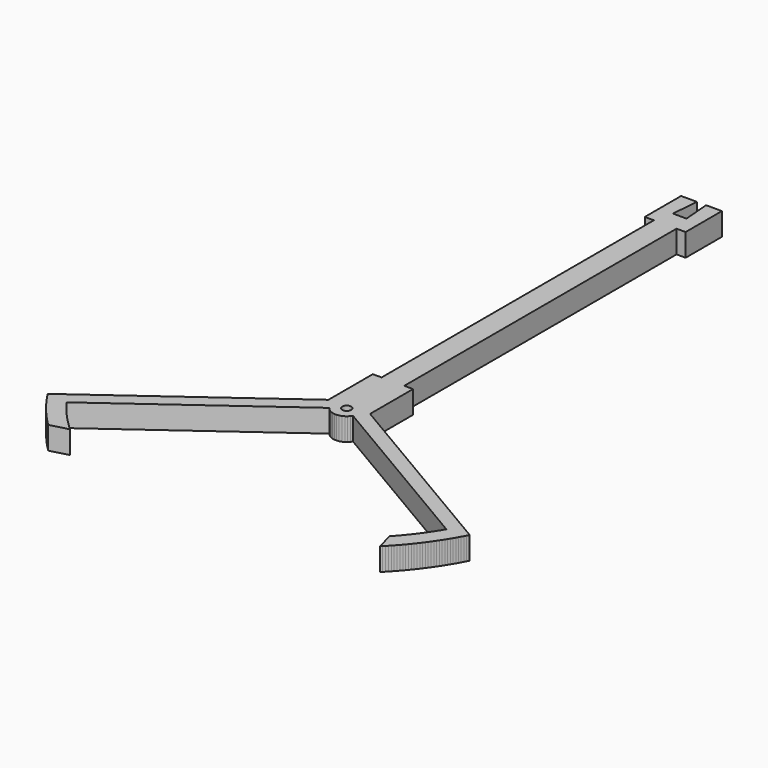
from build123d import *

# Parameters (mm, degrees)
F1_DEPTH = 5
F2_W     = 5
F2_H     = 5
F3_DEPTH = 85
F4_W     = 2
F4_H     = 10
F5_DEPTH = 5
F6_DEPTH = 5
F7_R     = 1
F8_DEPTH = 10


with BuildPart() as f1:
    # F0 (on Top) → F1 (new body)
    with BuildSketch(Plane.XY):
        Polygon((3.1958913997, 17.8316862418), (3.1958913997, 29.6752474937), (-5.6755073997, 29.6752474937), (-5.6755073997, 17.4481306137), (-3.004598, 19.391063), (-2.590673, 19.643703), (-2.127576, 19.830687), (-1.639877, 19.938255), (-1.14109, 19.963425), (-0.645039, 19.905499), (-0.165471, 19.766083), (0.284322, 19.549041), align=None)
        with BuildLine():
            Line((44.778874, -6.695544), (3.1958913997, 17.8316862418))
            Line((3.1958913997, 17.8316862418), (3.1958913997, 16.96755))
            Line((3.1958913997, 16.96755), (-0.239810875, 16.96755))
            ThreePointArc((-0.239810875, 16.96755), (-1.239808, 15.967552875), (-2.239805125, 16.96755))
            Line((-2.239805125, 16.96755), (-5.6755073997, 16.96755))
            Line((-5.6755073997, 16.96755), (-5.6755073997, 17.4481306137))
            Line((-5.6755073997, 17.4481306137), (-44.778874, -10.997311))
            Line((-44.778874, -10.997311), (-44.506651, -11.416707))
            Line((-44.506651, -11.416707), (-44.230389, -11.833453))
            Line((-44.230389, -11.833453), (-43.950113, -12.24751))
            Line((-43.950113, -12.24751), (-43.66585, -12.65884))
            Line((-43.66585, -12.65884), (-43.377624, -13.067404))
            Line((-43.377624, -13.067404), (-43.085465, -13.473164))
            Line((-43.085465, -13.473164), (-42.789399, -13.876081))
            Line((-42.789399, -13.876081), (-42.489453, -14.276119))
            Line((-42.489453, -14.276119), (-42.185655, -14.673241))
            Line((-42.185655, -14.673241), (-41.878035, -15.067408))
            Line((-41.878035, -15.067408), (-41.56662, -15.458584))
            Line((-41.56662, -15.458584), (-41.25144, -15.846733))
            Line((-41.25144, -15.846733), (-40.932525, -16.231819))
            Line((-40.932525, -16.231819), (-40.609903, -16.613804))
            Line((-40.609903, -16.613804), (-40.283605, -16.992655))
            Line((-40.283605, -16.992655), (-39.953662, -17.368335))
            Line((-39.953662, -17.368335), (-39.620104, -17.74081))
            Line((-39.620104, -17.74081), (-39.282963, -18.110044))
            Line((-39.282963, -18.110044), (-38.942269, -18.476003))
            Line((-38.942269, -18.476003), (-38.598056, -18.838653))
            Line((-38.598056, -18.838653), (-38.250354, -19.19796))
            Line((-38.250354, -19.19796), (-37.899197, -19.553891))
            Line((-37.899197, -19.553891), (-37.544616, -19.906411))
            Line((-37.544616, -19.906411), (-37.486622, -19.963425))
            Line((-37.486622, -19.963425), (-33.507621, -18.914429))
            Line((-33.507621, -18.914429), (-33.877651, -18.578163))
            Line((-33.877651, -18.578163), (-34.244177, -18.23808))
            Line((-34.244177, -18.23808), (-34.60716, -17.894218))
            Line((-34.60716, -17.894218), (-34.966561, -17.546614))
            Line((-34.966561, -17.546614), (-35.322341, -17.195304))
            Line((-35.322341, -17.195304), (-35.674461, -16.840326))
            Line((-35.674461, -16.840326), (-36.022885, -16.481719))
            Line((-36.022885, -16.481719), (-36.367574, -16.119522))
            Line((-36.367574, -16.119522), (-36.708491, -15.753772))
            Line((-36.708491, -15.753772), (-37.045601, -15.384509))
            Line((-37.045601, -15.384509), (-37.378867, -15.011774))
            Line((-37.378867, -15.011774), (-37.708252, -14.635605))
            Line((-37.708252, -14.635605), (-38.033722, -14.256044))
            Line((-38.033722, -14.256044), (-38.355242, -13.87313))
            Line((-38.355242, -13.87313), (-38.672778, -13.486906))
            Line((-38.672778, -13.486906), (-38.986294, -13.097412))
            Line((-38.986294, -13.097412), (-39.295758, -12.704691))
            Line((-39.295758, -12.704691), (-39.601136, -12.308785))
            Line((-39.601136, -12.308785), (-39.902395, -11.909735))
            Line((-39.902395, -11.909735), (-40.199504, -11.507586))
            Line((-40.199504, -11.507586), (-40.262255, -11.421522))
            Line((-40.262255, -11.421522), (-3.665827, 15.200266))
            Line((-3.665827, 15.200266), (-3.339439, 14.822254))
            Line((-3.339439, 14.822254), (-2.954863, 14.503627))
            Line((-2.954863, 14.503627), (-2.522758, 14.253214))
            Line((-2.522758, 14.253214), (-2.055097, 14.077956))
            Line((-2.055097, 14.077956), (-1.564842, 13.982709))
            Line((-1.564842, 13.982709), (-1.06558, 13.970114))
            Line((-1.06558, 13.970114), (-0.571146, 14.040519))
            Line((-0.571146, 14.040519), (-0.095243, 14.191973))
            Line((-0.095243, 14.191973), (0.34894, 14.420279))
            Line((0.34894, 14.420279), (0.749093, 14.719109))
            Line((0.749093, 14.719109), (1.094126, 15.080183))
            Line((1.094126, 15.080183), (1.344177, 15.440914))
            Line((1.344177, 15.440914), (40.323708, -7.550701))
            Line((40.323708, -7.550701), (40.067458, -7.980043))
            Line((40.067458, -7.980043), (39.806774, -8.406706))
            Line((39.806774, -8.406706), (39.541683, -8.830645))
            Line((39.541683, -8.830645), (39.272214, -9.251815))
            Line((39.272214, -9.251815), (38.998395, -9.67017))
            Line((38.998395, -9.67017), (38.720256, -10.085665))
            Line((38.720256, -10.085665), (38.437827, -10.498257))
            Line((38.437827, -10.498257), (38.151138, -10.907899))
            Line((38.151138, -10.907899), (37.86022, -11.31455))
            Line((37.86022, -11.31455), (37.565104, -11.718164))
            Line((37.565104, -11.718164), (37.265821, -12.118698))
            Line((37.265821, -12.118698), (36.962405, -12.51611))
            Line((36.962405, -12.51611), (36.654888, -12.910357))
            Line((36.654888, -12.910357), (36.343302, -13.301397))
            Line((36.343302, -13.301397), (36.02768, -13.689187))
            Line((36.02768, -13.689187), (35.708058, -14.073686))
            Line((35.708058, -14.073686), (35.384469, -14.454852))
            Line((35.384469, -14.454852), (35.056948, -14.832646))
            Line((35.056948, -14.832646), (34.72553, -15.207025))
            Line((34.72553, -15.207025), (34.390251, -15.57795))
            Line((34.390251, -15.57795), (34.318334, -15.656515))
            Line((34.318334, -15.656515), (35.327871, -19.64571))
            Line((35.327871, -19.64571), (35.67992, -19.290661))
            Line((35.67992, -19.290661), (36.028522, -18.932227))
            Line((36.028522, -18.932227), (36.373644, -18.570442))
            Line((36.373644, -18.570442), (36.715254, -18.205338))
            Line((36.715254, -18.205338), (37.05332, -17.836951))
            Line((37.05332, -17.836951), (37.387811, -17.465314))
            Line((37.387811, -17.465314), (37.718695, -17.090462))
            Line((37.718695, -17.090462), (38.045942, -16.712431))
            Line((38.045942, -16.712431), (38.369521, -16.331256))
            Line((38.369521, -16.331256), (38.689401, -15.946971))
            Line((38.689401, -15.946971), (39.005553, -15.559614))
            Line((39.005553, -15.559614), (39.317948, -15.16922))
            Line((39.317948, -15.16922), (39.626556, -14.775825))
            Line((39.626556, -14.775825), (39.931348, -14.379467))
            Line((39.931348, -14.379467), (40.232296, -13.980182))
            Line((40.232296, -13.980182), (40.529372, -13.578008))
            Line((40.529372, -13.578008), (40.822549, -13.172983))
            Line((40.822549, -13.172983), (41.111797, -12.765143))
            Line((41.111797, -12.765143), (41.397092, -12.354527))
            Line((41.397092, -12.354527), (41.678405, -11.941174))
            Line((41.678405, -11.941174), (41.955712, -11.525122))
            Line((41.955712, -11.525122), (42.228985, -11.10641))
            Line((42.228985, -11.10641), (42.498199, -10.685077))
            Line((42.498199, -10.685077), (42.76333, -10.261162))
            Line((42.76333, -10.261162), (43.024353, -9.834706))
            Line((43.024353, -9.834706), (43.281242, -9.405747))
            Line((43.281242, -9.405747), (43.533975, -8.974325))
            Line((43.533975, -8.974325), (43.782527, -8.540482))
            Line((43.782527, -8.540482), (44.026875, -8.104258))
            Line((44.026875, -8.104258), (44.266997, -7.665692))
            Line((44.266997, -7.665692), (44.50287, -7.224827))
            Line((44.50287, -7.224827), (44.734473, -6.781704))
            Line((44.734473, -6.781704), (44.778874, -6.695544))
        make_face()
        with BuildLine():
            Line((3.1958913997, 16.96755), (3.1958913997, 17.8316862418))
            Line((3.1958913997, 17.8316862418), (0.284322, 19.549041))
            Line((0.284322, 19.549041), (-0.165471, 19.766083))
            Line((-0.165471, 19.766083), (-0.645039, 19.905499))
            Line((-0.645039, 19.905499), (-1.14109, 19.963425))
            Line((-1.14109, 19.963425), (-1.639877, 19.938255))
            Line((-1.639877, 19.938255), (-2.127576, 19.830687))
            Line((-2.127576, 19.830687), (-2.590673, 19.643703))
            Line((-2.590673, 19.643703), (-3.004598, 19.391063))
            Line((-3.004598, 19.391063), (-5.6755073997, 17.4481306137))
            Line((-5.6755073997, 17.4481306137), (-5.6755073997, 16.96755))
            Line((-5.6755073997, 16.96755), (-2.239805125, 16.96755))
            ThreePointArc((-2.239805125, 16.96755), (-1.239808, 17.967547125), (-0.239810875, 16.96755))
            Line((-0.239810875, 16.96755), (3.1958913997, 16.96755))
        make_face()
    extrude(amount=F1_DEPTH)

    # F2 (on face) → F3 (join)
    with BuildSketch(Plane(origin=(0, 29.6752474937, 0), x_dir=(-1, 0, 0), z_dir=(0, 1, 0))):
        with Locations((1.239808, 2.5)):
            Rectangle(F2_W, F2_H)
    extrude(amount=F3_DEPTH)

    # F4 (on face) → F5 (join)
    with BuildSketch(Plane.XY.offset(5)):
        with Locations((-4.739808, 109.6752474937)):
            Rectangle(F4_W, F4_H)
        with Locations((2.260192, 109.6752474937)):
            Rectangle(F4_W, F4_H)
    extrude(amount=-F5_DEPTH)

    # F4 (on face) → F6 (cut)
    with BuildSketch(Plane.XY.offset(5)):
        Polygon((-0.239808, 114.6752474937), (-2.239808, 114.6752474937), (-2.739808, 108.6752474937), (0.260192, 108.6752474937), align=None)
    extrude(amount=-F6_DEPTH, mode=Mode.SUBTRACT)

    # F7 (on face) → F8 (cut)
    with BuildSketch(Plane.YZ.offset(3.260192)):
        with Locations((121.0267286794, 2.5)):
            Circle(F7_R)
    extrude(amount=-F8_DEPTH, mode=Mode.SUBTRACT)


solid = f1.part
